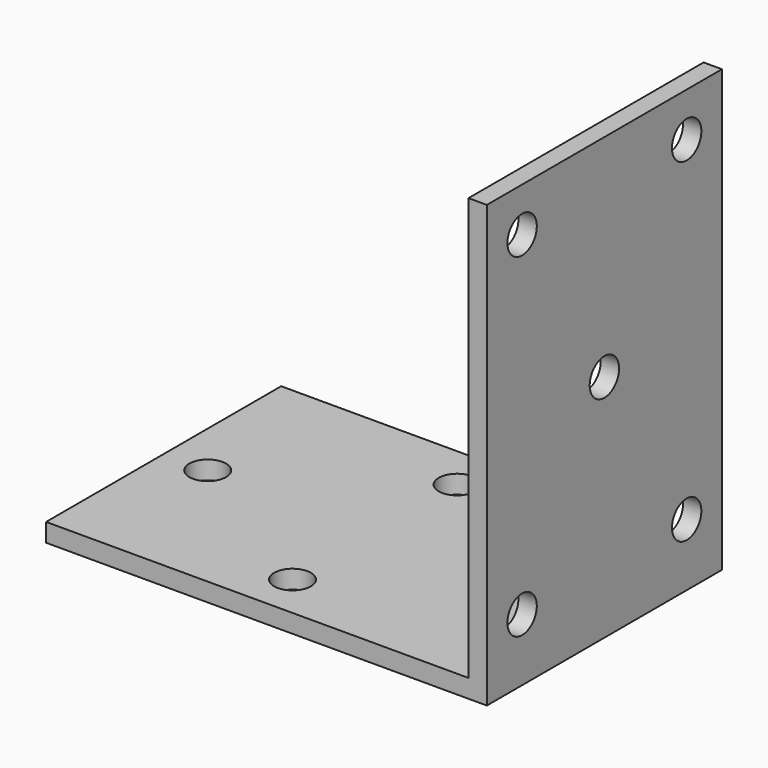
from build123d import *

# Parameters (mm, degrees)
F1_DEPTH = 20
F2_R     = 2.5
F3_DEPTH = 25
F4_R     = 2.5
F5_DEPTH = 25


with BuildPart() as f1:
    # F0 (on Front) → F1 (new body, symmetric)
    with BuildSketch(Plane.XZ):
        Polygon((-60, 2.5), (-60, 0), (0, 0), (0, 60), (-2.5, 60), (-2.5, 2.5), align=None)
    extrude(amount=F1_DEPTH, both=True)

    # F2 (on face) → F3 (cut)
    with BuildSketch(Plane(origin=(-2.5, 0, 0), x_dir=(0, -1, 0), z_dir=(-1, 0, 0))):
        with Locations((0, 31.25)):
            Circle(F2_R)
        with Locations((-14, 8.5)):
            Circle(F2_R)
        with Locations((-14, 54)):
            Circle(F2_R)
        with Locations((14, 54)):
            Circle(F2_R)
        with Locations((14, 8.5)):
            Circle(F2_R)
    extrude(amount=-F3_DEPTH, mode=Mode.SUBTRACT)

    # F4 (on face) → F5 (cut)
    with BuildSketch(Plane.XY.offset(2.5)):
        with Locations((-54, 0)):
            Circle(F4_R)
        with Locations((-31.25, 14)):
            Circle(F4_R)
        with Locations((-31.25, -14)):
            Circle(F4_R)
        with Locations((-8.5, 0)):
            Circle(F4_R)
    extrude(amount=-F5_DEPTH, mode=Mode.SUBTRACT)


solid = f1.part
